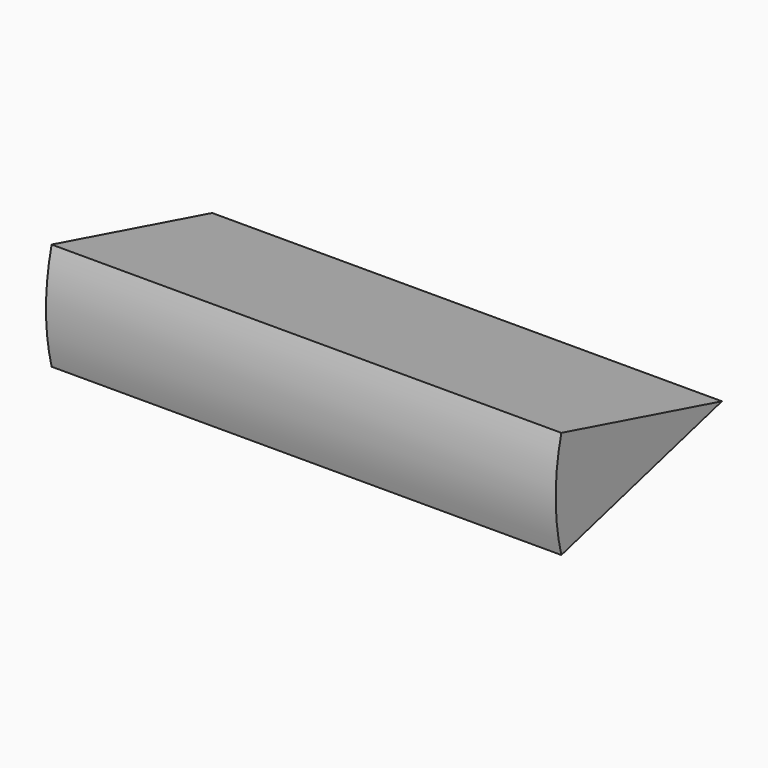
from build123d import *

# Parameters (mm, degrees)
F0_W     = 66.254194
F0_H     = 27.007148
F1_ANGLE = 30


with BuildPart() as f1:
    # F0 (on Top) → F1 (revolve, symmetric)
    with BuildSketch(Plane.XY) as f1_sk:
        with Locations((-18.413922, -55.854641)):
            Rectangle(F0_W, F0_H)
    revolve(axis=Axis((-18.413922, -42.351067, 0), (1, 0, 0)), revolution_arc=F1_ANGLE / 2)
    revolve(f1_sk.sketch, axis=Axis((-18.413922, -42.351067, 0), (-1, 0, 0)), revolution_arc=F1_ANGLE / 2)


solid = f1.part
